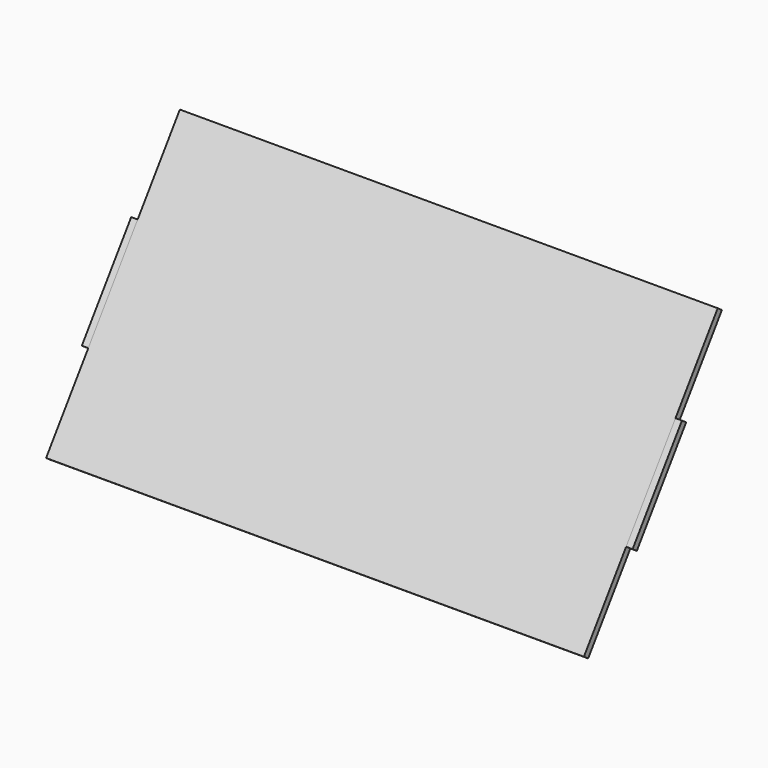
from build123d import *

# Parameters (mm, degrees)
PAD012_DEPTH = 250
SKETCH023_W  = 100
SKETCH023_H  = 6
PAD015_DEPTH = 6


with BuildPart() as part:
    # Sketch020 → Pad012 (new body, symmetric)
    with BuildSketch(Plane.YZ):
        Polygon((-222, 120), (-66.553927, 342), (-61.639014, 338.558541), (-217.085088, 116.558541), align=None)
    extrude(amount=PAD012_DEPTH, both=True)

    # Sketch023 (on Face1 of Pad012) → Pad015 (join)
    with BuildSketch(Plane(origin=(0, -205.345793, 143.784672), x_dir=(0, -0.573576, -0.819152), z_dir=(0, -0.819152, 0.573576))):
        with Locations((-106.470256, -253)):
            Rectangle(SKETCH023_W, SKETCH023_H)
    pad015 = extrude(amount=-PAD015_DEPTH)

    # Mirrored001: Pad015 across YZ
    add(pad015.mirror(Plane.YZ))


solid = part.part
